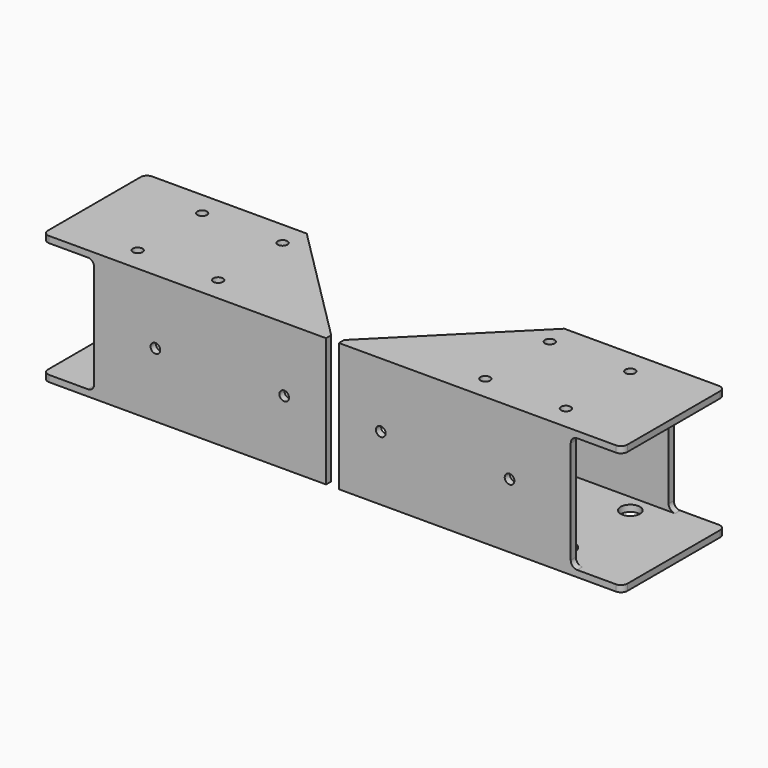
from build123d import *

# Parameters (mm, degrees)
F0_W          = 40
F0_H          = 40
F1_DEPTH      = 90
F2_T          = -2
F4_D          = 3
F4_DEPTH      = 40
F4_TIP        = 0.9012909285
F5_D          = 6
F5_DEPTH      = 3
F5_TIP        = 1.8025818571
F7_DEPTH      = 40.001
F8_W          = 16
F8_H          = 36
F9_DEPTH      = 2.001
F9_DEPTH_BACK = 38.001
F10_R         = 2
F11_D         = 3
F11_DEPTH     = 3
F11_TIP       = 0.9012909285
F12_D         = 6
F12_DEPTH     = 40
F12_TIP       = 1.8025818571


with BuildPart() as f1:
    # F0 (on Right) → F1 (new body)
    with BuildSketch(Plane.YZ):
        Rectangle(F0_W, F0_H)
    extrude(amount=-F1_DEPTH)

    # F2
    f2_openings = [f1.faces().sort_by_distance(p)[0] for p in [
        (-90, 0, 0),
        (0, 0, 0),
    ]]
    offset(amount=F2_T, openings=f2_openings)

    # F4 (one way)
    with BuildSketch(Plane(origin=(0, 0, -18), x_dir=(1, 0, 0), z_dir=(0, 0, -1))):
        with Locations((-66.5, -12.5), (-41.5, -12.5), (-66.5, 12.5), (-41.5, 12.5)):
            Circle(F4_D / 2)
    extrude(amount=-F4_DEPTH, mode=Mode.SUBTRACT)
    with Locations(Plane(origin=(0, 0, -18), x_dir=(1, 0, 0), z_dir=(0, 0, -1))):
        with Locations((-66.5, -12.5), (-41.5, -12.5), (-66.5, 12.5), (-41.5, 12.5)):
            with Locations((0, 0, -(F4_DEPTH + F4_TIP / 2))):  # 118° drill point
                Cone(0, F4_D / 2, F4_TIP, mode=Mode.SUBTRACT)

    # F5 (one way)
    with BuildSketch(Plane.XY.offset(-18)):
        with Locations((-66.5, 12.5), (-66.5, -12.5), (-41.5, -12.5), (-41.5, 12.5)):
            Circle(F5_D / 2)
    extrude(amount=-F5_DEPTH, mode=Mode.SUBTRACT)
    with Locations(Plane.XY.offset(-18)):
        with Locations((-66.5, 12.5), (-66.5, -12.5), (-41.5, -12.5), (-41.5, 12.5)):
            with Locations((0, 0, -(F5_DEPTH + F5_TIP / 2))):  # 118° drill point
                Cone(0, F5_D / 2, F5_TIP, mode=Mode.SUBTRACT)

    # F6 (on face) → F7 (cut, through all)
    with BuildSketch(Plane.XY.offset(20)):
        Polygon((-2, -18), (0, -20), (0, 20), (-40, 20), align=None)
        Polygon((-2, -20), (0, -20), (-2, -18), align=None)
    extrude(amount=-F7_DEPTH, mode=Mode.SUBTRACT)

    # F8 (on face) → F9 (cut, two sides)
    with BuildSketch(Plane(origin=(0, -18, 0), x_dir=(-1, 0, 0), z_dir=(0, 1, 0))) as f9_sk:
        with Locations((82, 0)):
            Rectangle(F8_W, F8_H)
        with Locations((82, 0)):
            Rectangle(F8_W, F8_H)
    extrude(amount=-F9_DEPTH, mode=Mode.SUBTRACT)
    extrude(f9_sk.sketch, amount=F9_DEPTH_BACK, mode=Mode.SUBTRACT)

    # F10
    f10_edges = [f1.edges().sort_by_distance(p)[0] for p in [
        (-74, -19, 18),
        (-74, 19, 18),
        (-74, 19, -18),
        (-74, -19, -18),
        (-90, 20, 19),
        (-90, -20, 19),
        (-90, -20, -19),
        (-90, 20, -19),
    ]]
    fillet(f10_edges, radius=F10_R)

    # F11 (one way)
    with BuildSketch(Plane(origin=(0, -18, 0), x_dir=(-1, 0, 0), z_dir=(0, 1, 0))):
        with Locations((55, 0), (15, 0)):
            Circle(F11_D / 2)
    extrude(amount=-F11_DEPTH, mode=Mode.SUBTRACT)
    with Locations(Plane(origin=(0, -18, 0), x_dir=(-1, 0, 0), z_dir=(0, 1, 0))):
        with Locations((55, 0), (15, 0)):
            with Locations((0, 0, -(F11_DEPTH + F11_TIP / 2))):  # 118° drill point
                Cone(0, F11_D / 2, F11_TIP, mode=Mode.SUBTRACT)

    # F12 (one way)
    with BuildSketch(Plane(origin=(0, -18, 0), x_dir=(-1, 0, 0), z_dir=(0, -1, 0))):
        with Locations((55, 0)):
            Circle(F12_D / 2)
    extrude(amount=-F12_DEPTH, mode=Mode.SUBTRACT)
    with Locations(Plane(origin=(0, -18, 0), x_dir=(-1, 0, 0), z_dir=(0, -1, 0))):
        with Locations((55, 0)):
            with Locations((0, 0, -(F12_DEPTH + F12_TIP / 2))):  # 118° drill point
                Cone(0, F12_D / 2, F12_TIP, mode=Mode.SUBTRACT)


with BuildPart() as f13_1:
    # F13: instance of F1
    add(f1.part.mirror(Plane.YZ))


solid = Compound([f1.part, f13_1.part])
